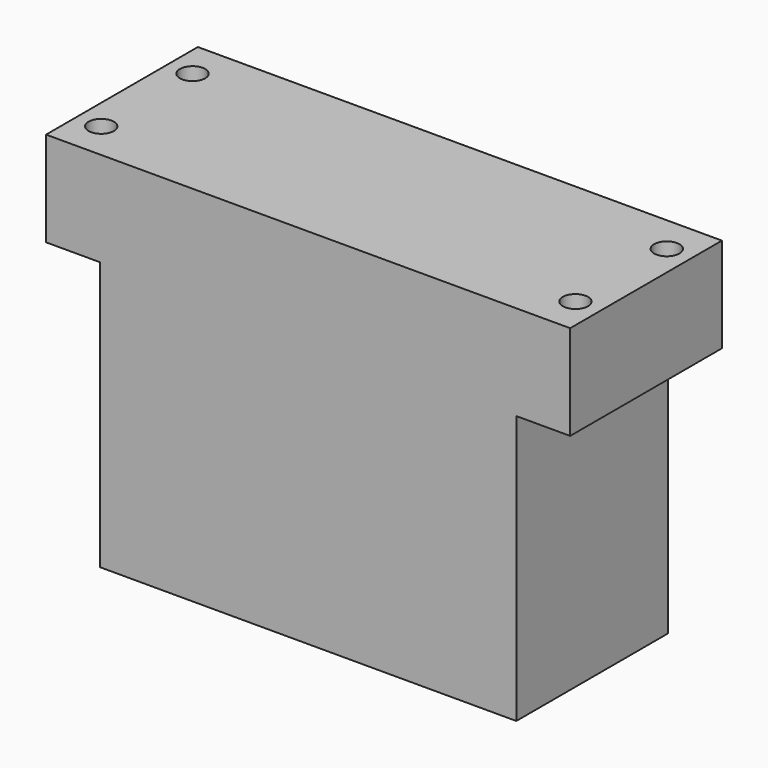
from build123d import *

# Parameters (mm, degrees)
F0_W     = 65.786
F0_H     = 29.972
F1_DEPTH = 42.418
F2_R     = 2
F3_DEPTH = 14.986


with BuildPart() as f1:
    # F0 (on Top) → F1 (new body)
    with BuildSketch(Plane.XY):
        with Locations((32.893, 14.986)):
            Rectangle(F0_W, F0_H)
    extrude(amount=F1_DEPTH)

    # F2 (on face) → F3 (join)
    with BuildSketch(Plane.XY.offset(42.418)):
        Polygon((32.893, 29.972), (-8.509, 29.972), (-8.509, 0), (32.893, 0), (74.295, 0), (74.295, 29.972), align=None)
        with Locations((-4.572, 5.969)):
            Circle(F2_R, mode=Mode.SUBTRACT)
        with Locations((70.358, 5.969)):
            Circle(F2_R, mode=Mode.SUBTRACT)
        with Locations((-4.572, 24.003)):
            Circle(F2_R, mode=Mode.SUBTRACT)
        with Locations((70.358, 24.003)):
            Circle(F2_R, mode=Mode.SUBTRACT)
    extrude(amount=F3_DEPTH)


solid = f1.part
